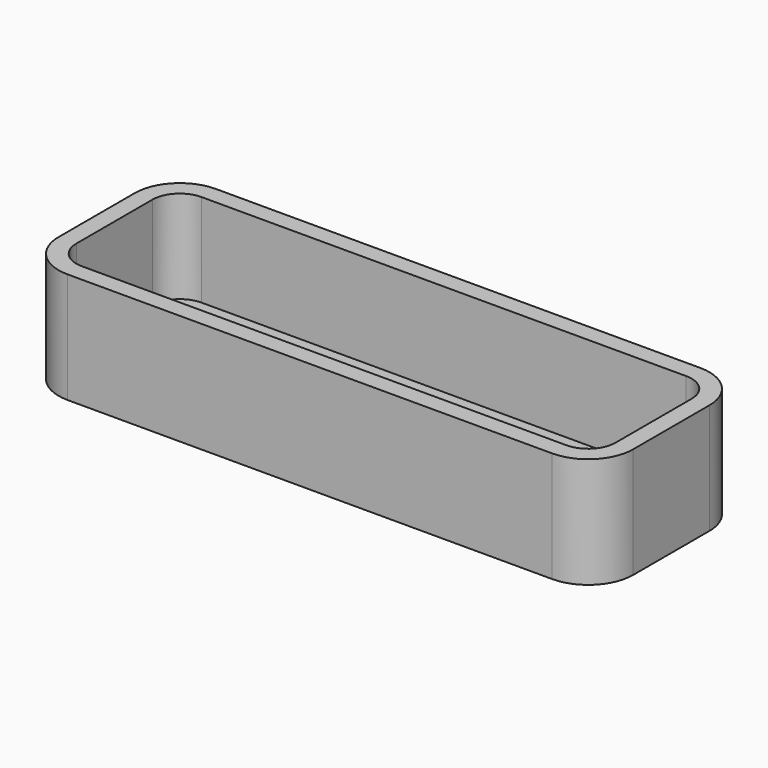
from build123d import *

# Parameters (mm, degrees)
F1_DEPTH = 15.618712
F2_T     = -2.5


with BuildPart() as f1:
    # F0 (on Top) → F1 (new body)
    with BuildSketch(Plane.XY):
        with BuildLine():
            ThreePointArc((37.34225, 19.78961), (35.482378, 24.279738), (30.99225, 26.13961))
            Line((30.99225, 26.13961), (-37.423487, 26.13961))
            ThreePointArc((-37.423487, 26.13961), (-41.913615, 24.279738), (-43.773487, 19.78961))
            Line((-43.773487, 19.78961), (-43.773487, 6.35))
            ThreePointArc((-43.773487, 6.35), (-41.913615, 1.859872), (-37.423487, 0))
            Line((-37.423487, 0), (30.99225, 0))
            ThreePointArc((30.99225, 0), (35.482378, 1.859872), (37.34225, 6.35))
            Line((37.34225, 6.35), (37.34225, 19.78961))
        make_face()
    extrude(amount=F1_DEPTH)

    # F2
    f2_openings = [f1.faces().sort_by_distance(p)[0] for p in [
        (-3.215618, 13.069805, 15.618712),
    ]]
    offset(amount=F2_T, openings=f2_openings)


solid = f1.part
